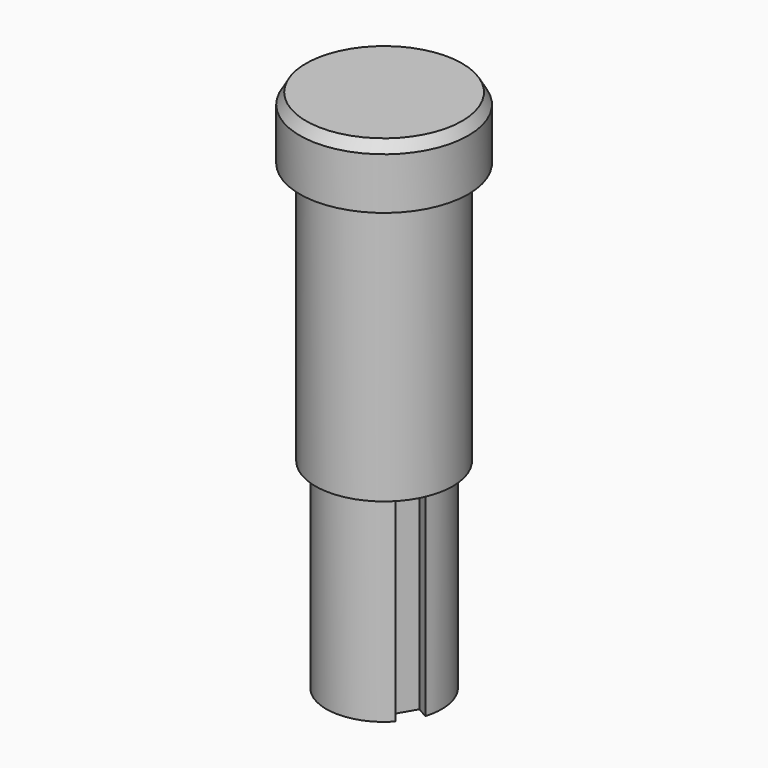
from build123d import *

# Parameters (mm, degrees)
F0_R     = 1.75
F1_DEPTH = 16
F2_R     = 5.5
F3_DEPTH = 21
F4_R     = 6.75
F5_DEPTH = 5
F6_SIZE2 = 0.5
F6_SIZE  = 0.8660254038
F7_SIZE  = 0.5


with BuildPart() as f1:
    # F0 (on Top) → F1 (new body)
    with BuildSketch(Plane.XY):
        with BuildLine():
            Line((-1, 3.515597967), (-1, 4.515597967))
            ThreePointArc((-1, 4.515597967), (-4.0053674925, 2.3125), (-4.4106225527, -1.3917735797))
            Line((-4.4106225527, -1.3917735797), (-3.544597149, -0.8917735797))
            Line((-3.544597149, -0.8917735797), (-2.544597149, -2.6238243873))
            Line((-2.544597149, -2.6238243873), (-3.4106225527, -3.1238243873))
            ThreePointArc((-3.4106225527, -3.1238243873), (0, -4.625), (3.4106225527, -3.1238243873))
            Line((3.4106225527, -3.1238243873), (2.544597149, -2.6238243873))
            Line((2.544597149, -2.6238243873), (3.544597149, -0.8917735797))
            Line((3.544597149, -0.8917735797), (4.4106225527, -1.3917735797))
            ThreePointArc((4.4106225527, -1.3917735797), (4.0053674925, 2.3125), (1, 4.515597967))
            Line((1, 4.515597967), (1, 3.515597967))
            Line((1, 3.515597967), (-1, 3.515597967))
        make_face()
        Circle(F0_R, mode=Mode.SUBTRACT)
    extrude(amount=F1_DEPTH)

    # F2 (on face) → F3 (join)
    with BuildSketch(Plane.XY.offset(16)):
        Circle(F2_R)
    extrude(amount=F3_DEPTH)

    # F4 (on face) → F5 (join)
    with BuildSketch(Plane.XY.offset(37)):
        Circle(F4_R)
    extrude(amount=F5_DEPTH)

    # F6
    f6_edges = [f1.edges().sort_by_distance(p)[0] for p in [
        (-6.75, 0, 42),
    ]]
    f6_side = f1.faces().sort_by_distance((-6.75, 0, 39.5))[0]
    chamfer(f6_edges, length=F6_SIZE, length2=F6_SIZE2, reference=f6_side)

    # F7
    f7_edges = [f1.edges().sort_by_distance(p)[0] for p in [
        (-1.75, 0, 0),
    ]]
    chamfer(f7_edges, length=F7_SIZE)


solid = f1.part
